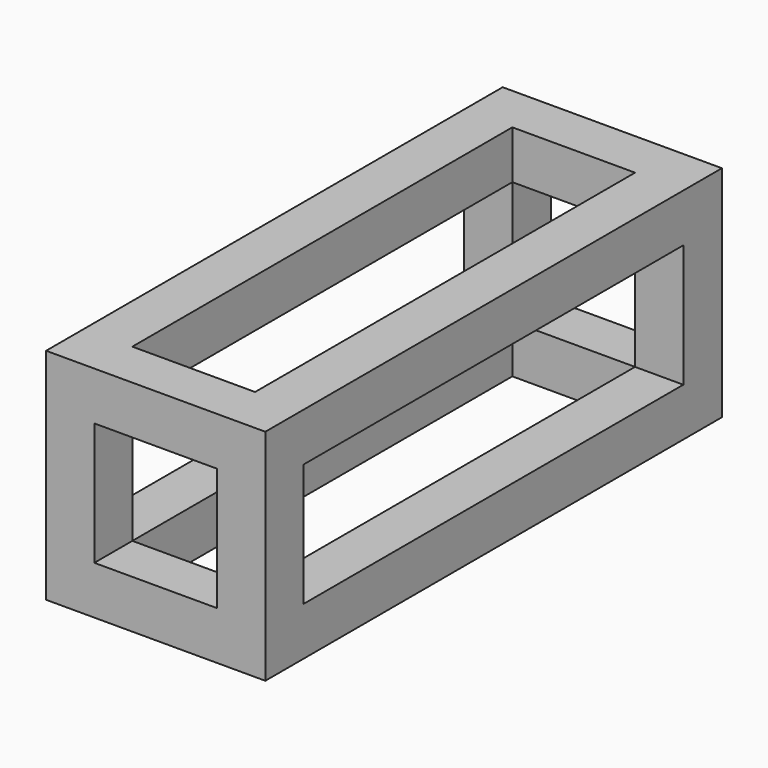
from build123d import *

# Parameters (mm, degrees)
F1_W     = 115.4
F1_H     = 115.4
F1_W_2   = 64.6
F1_H_2   = 64.6
F2_DEPTH = 25.4
F0_W     = 25.4
F0_H     = 25.4
F3_DEPTH = 250
F4_W     = 25.4
F4_H     = 25.4
F4_W_2   = 64.6
F4_H_2   = 64.6
F5_DEPTH = 25


with BuildPart() as f2:
    # F1 (on Front) → F2 (new body)
    with BuildSketch(Plane.XZ):
        Rectangle(F1_W, F1_H)
        Rectangle(F1_W_2, F1_H_2, mode=Mode.SUBTRACT)
    extrude(amount=-F2_DEPTH)

    # F0 (on Front) → F3 (join)
    with BuildSketch(Plane.XZ):
        with Locations((45, 45)):
            Rectangle(F0_W, F0_H)
        with Locations((-45, 45)):
            Rectangle(F0_W, F0_H)
        with Locations((-45, -45)):
            Rectangle(F0_W, F0_H)
        with Locations((45, -45)):
            Rectangle(F0_W, F0_H)
    extrude(amount=F3_DEPTH)

    # F4 (on face) → F5 (join)
    with BuildSketch(Plane.XZ.offset(250)):
        with Locations((-45, 45)):
            Rectangle(F4_W, F4_H)
        Polygon((57.7, 57.7), (-32.3, 57.7), (-32.3, 32.3), (-57.7, 32.3), (-57.7, -57.7), (57.7, -57.7), align=None)
        Rectangle(F4_W_2, F4_H_2, mode=Mode.SUBTRACT)
    extrude(amount=F5_DEPTH)


solid = f2.part
